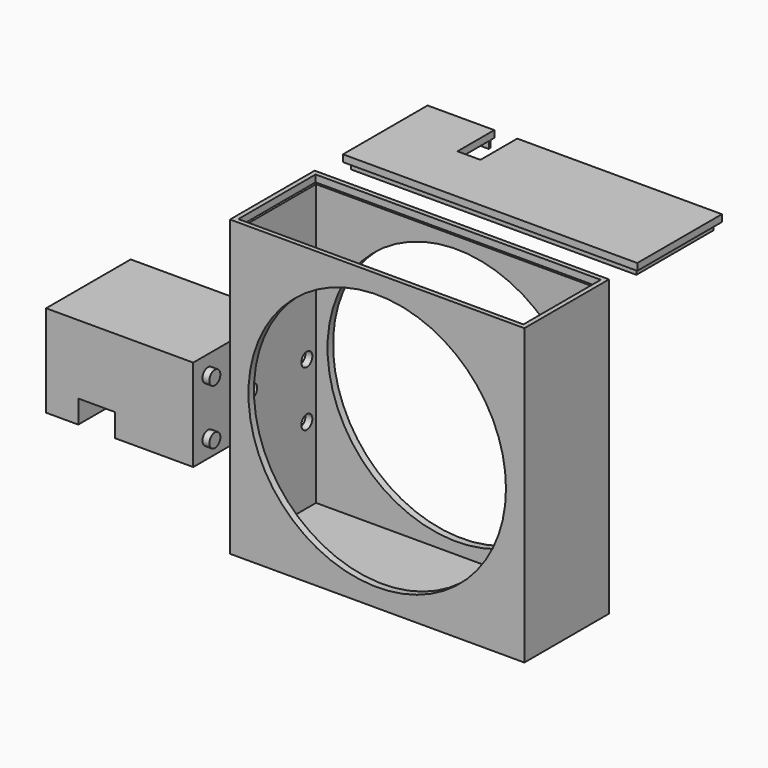
from build123d import *

# Parameters (mm, degrees)
F0_W      = 64
F0_H      = 64
F0_R      = 28
F1_DEPTH  = 1.5
F2_W      = 64
F2_H      = 21.5
F3_DEPTH  = 1.5
F4_W      = 1.5
F4_H      = 23
F5_DEPTH  = 64
F6_W      = 61
F6_H      = 62.5
F6_R      = 28
F7_DEPTH  = 1.5
F8_W      = 64
F8_H      = 23
F9_DEPTH  = 1.5
F10_W     = 62
F10_H     = 21
F10_W_2   = 61
F10_H_2   = 20
F11_DEPTH = 1.5
F12_W     = 62
F12_H     = 21
F12_W_2   = 61
F12_H_2   = 20
F13_DEPTH = 1.5
F14_W     = 5
F14_H     = 1.5
F15_DEPTH = 10
F17_W     = 23
F17_H     = 20
F18_DEPTH = 32
F19_W     = 8
F19_H     = 23
F20_DEPTH = 5
F21_R     = 1.5
F22_DEPTH = 1.5
F23_R     = 1.5
F24_DEPTH = 4


with BuildPart() as f1:
    # F0 (on Front) → F1 (new body)
    with BuildSketch(Plane.XZ):
        Rectangle(F0_W, F0_H)
        Circle(F0_R, mode=Mode.SUBTRACT)
    extrude(amount=-F1_DEPTH)

    # F2 (on face) → F3 (join)
    with BuildSketch(Plane(origin=(0, 0, -32), x_dir=(1, 0, 0), z_dir=(0, 0, -1))):
        with Locations((0, 10.75)):
            Rectangle(F2_W, F2_H)
    extrude(amount=-F3_DEPTH)

    # F4 (on face) → F5 (join)
    with BuildSketch(Plane(origin=(0, 0, -32), x_dir=(1, 0, 0), z_dir=(0, 0, -1))):
        with Locations((-31.25, 10)):
            Rectangle(F4_W, F4_H)
        with Locations((31.25, 10)):
            Rectangle(F4_W, F4_H)
    extrude(amount=-F5_DEPTH)

    # F6 (on face) → F7 (join)
    with BuildSketch(Plane.XZ.offset(21.5)):
        with Locations((0, 0.75)):
            Rectangle(F6_W, F6_H)
        Circle(F6_R, mode=Mode.SUBTRACT)
    extrude(amount=-F7_DEPTH)

    # F12 (on face) → F13 (cut)
    with BuildSketch(Plane.XY.offset(32)):
        with Locations((0, -10)):
            Rectangle(F12_W, F12_H)
        with Locations((0, -10)):
            Rectangle(F12_W_2, F12_H_2, mode=Mode.SUBTRACT)
    extrude(amount=-F13_DEPTH, mode=Mode.SUBTRACT)

    # F23 (on face) → F24 (cut)
    with BuildSketch(Plane.YZ.offset(-30.5)):
        with Locations((-2.5, -2)):
            Circle(F23_R)
        with Locations((-2.5, -14)):
            Circle(F23_R)
        with Locations((-17.5, -14)):
            Circle(F23_R)
        with Locations((-17.5, -2)):
            Circle(F23_R)
    extrude(amount=-F24_DEPTH, mode=Mode.SUBTRACT)


with BuildPart() as f9:
    # F8 (on face) → F9 (new body)
    with BuildSketch(Plane.XY.offset(32)):
        with Locations((0, 20.6916090101)):
            Rectangle(F8_W, F8_H)
    extrude(amount=-F9_DEPTH)

    # F10 (on face) → F11 (join)
    with BuildSketch(Plane(origin=(0, 0, 30.5), x_dir=(1, 0, 0), z_dir=(0, 0, -1))):
        with Locations((0, -20.6916090101)):
            Rectangle(F10_W, F10_H)
        with Locations((0, -20.6916090101)):
            Rectangle(F10_W_2, F10_H_2, mode=Mode.SUBTRACT)
    extrude(amount=F11_DEPTH)

    # F14 (on face) → F15 (cut)
    with BuildSketch(Plane(origin=(0, 32.1916090101, 0), x_dir=(-1, 0, 0), z_dir=(0, 1, 0))):
        Polygon((17.5, 32), (12.5, 32), (12.5, 30.5060082078), (12.5, 30.5), (17.5, 30.5), (17.5, 30.5060082078), align=None)
        with Locations((15, 29.75)):
            Rectangle(F14_W, F14_H)
    extrude(amount=-F15_DEPTH, mode=Mode.SUBTRACT)


with BuildPart() as f18:
    # F17 (on offset) → F18 (new body)
    with BuildSketch(Plane(origin=(-40, 0, 0), x_dir=(0, -1, 0), z_dir=(-1, 0, 0))):
        with Locations((10, -8)):
            Rectangle(F17_W, F17_H)
    extrude(amount=F18_DEPTH)

    # F19 (on face) → F20 (cut)
    with BuildSketch(Plane(origin=(0, 0, -18), x_dir=(1, 0, 0), z_dir=(0, 0, -1))):
        with Locations((-61, 10)):
            Rectangle(F19_W, F19_H)
    extrude(amount=-F20_DEPTH, mode=Mode.SUBTRACT)

    # F21 (on face) → F22 (join)
    with BuildSketch(Plane.YZ.offset(-40)):
        with Locations((-17.5, -2)):
            Circle(F21_R)
        with Locations((-17.5, -14)):
            Circle(F21_R)
        with Locations((-2.5, -2)):
            Circle(F21_R)
        with Locations((-2.5, -14)):
            Circle(F21_R)
    extrude(amount=F22_DEPTH)


solid = Compound([f1.part, f9.part, f18.part])
